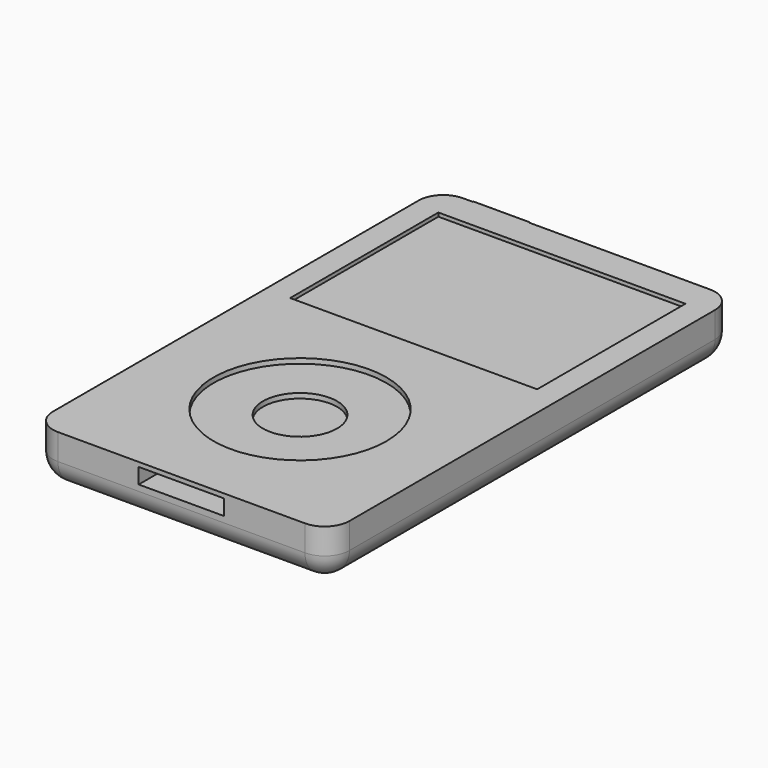
from build123d import *

# Parameters (mm, degrees)
F0_R      = 17.78
F0_W      = 50.8
F0_H      = 38.1
F1_DEPTH  = 10.414
F2_DEPTH  = 9.652
F0_R_2    = 7.62
F3_DEPTH  = 9.398
F4_DEPTH  = 8.382
F5_R      = 5.08
F6_W      = 17.5757724792
F6_H      = 3.1867753714
F7_DEPTH  = 7.874
F8_W      = 11.499017477
F8_H      = 5.2686166653
F9_DEPTH  = 0.254
F10_DEPTH = 7.62


with BuildPart() as f1:
    # F0 (on Top) → F1 (new body)
    with BuildSketch(Plane.XY):
        with BuildLine():
            Line((25.4, 52.07), (-25.4, 52.07))
            ThreePointArc((-25.4, 52.07), (-28.9921024484, 50.5821024484), (-30.48, 46.99))
            Line((-30.48, 46.99), (-30.48, -46.99))
            ThreePointArc((-30.48, -46.99), (-28.9921024484, -50.5821024484), (-25.4, -52.07))
            Line((-25.4, -52.07), (25.4, -52.07))
            ThreePointArc((25.4, -52.07), (28.9921024484, -50.5821024484), (30.48, -46.99))
            Line((30.48, -46.99), (30.48, 46.99))
            ThreePointArc((30.48, 46.99), (28.9921024484, 50.5821024484), (25.4, 52.07))
        make_face()
        with Locations((0, -21.59)):
            Circle(F0_R, mode=Mode.SUBTRACT)
        with Locations((0, 26.67)):
            Rectangle(F0_W, F0_H, mode=Mode.SUBTRACT)
    extrude(amount=F1_DEPTH)

    # F0 (on Top) → F2 (join)
    with BuildSketch(Plane.XY):
        with Locations((0, 26.67)):
            Rectangle(F0_W, F0_H)
    extrude(amount=F2_DEPTH)

    # F0 (on Top) → F3 (join)
    with BuildSketch(Plane.XY):
        with Locations((0, -21.59)):
            Circle(F0_R)
        with Locations((0, -21.59)):
            Circle(F0_R_2, mode=Mode.SUBTRACT)
    extrude(amount=F3_DEPTH)

    # F0 (on Top) → F4 (join)
    with BuildSketch(Plane.XY):
        with Locations((0, -21.59)):
            Circle(F0_R_2)
    extrude(amount=F4_DEPTH)

    # F5
    f5_edges = [f1.edges().sort_by_distance(p)[0] for p in [
        (-28.992102, -50.582102, 0),
    ]]
    fillet(f5_edges, radius=F5_R)

    # F6 (on face) → F7 (cut)
    with BuildSketch(Plane.XZ.offset(52.07)):
        with Locations((0, 7.9176947474)):
            Rectangle(F6_W, F6_H)
    extrude(amount=-F7_DEPTH, mode=Mode.SUBTRACT)

    # F8 (on face) → F9 (join)
    with BuildSketch(Plane(origin=(0, 52.07, 0), x_dir=(-1, 0, 0), z_dir=(0, 1, 0))):
        with Locations((17.6987573504, 7.7143083327)):
            Rectangle(F8_W, F8_H)
    extrude(amount=F9_DEPTH)

    # F8 (on face) → F10 (cut)
    with BuildSketch(Plane(origin=(0, 52.07, 0), x_dir=(-1, 0, 0), z_dir=(0, 1, 0))):
        with BuildLine():
            ThreePointArc((-24.9499100409, 5.08), (-21.5465091169, 1.676599076), (-18.1431081928, 5.08))
            Line((-18.1431081928, 5.08), (-24.9499100409, 5.08))
        make_face()
        with BuildLine():
            Line((-24.9499100409, 5.08), (-18.1431081928, 5.08))
            ThreePointArc((-18.1431081928, 5.08), (-21.5465091169, 8.483400924), (-24.9499100409, 5.08))
        make_face()
    extrude(amount=-F10_DEPTH, mode=Mode.SUBTRACT)


solid = f1.part
